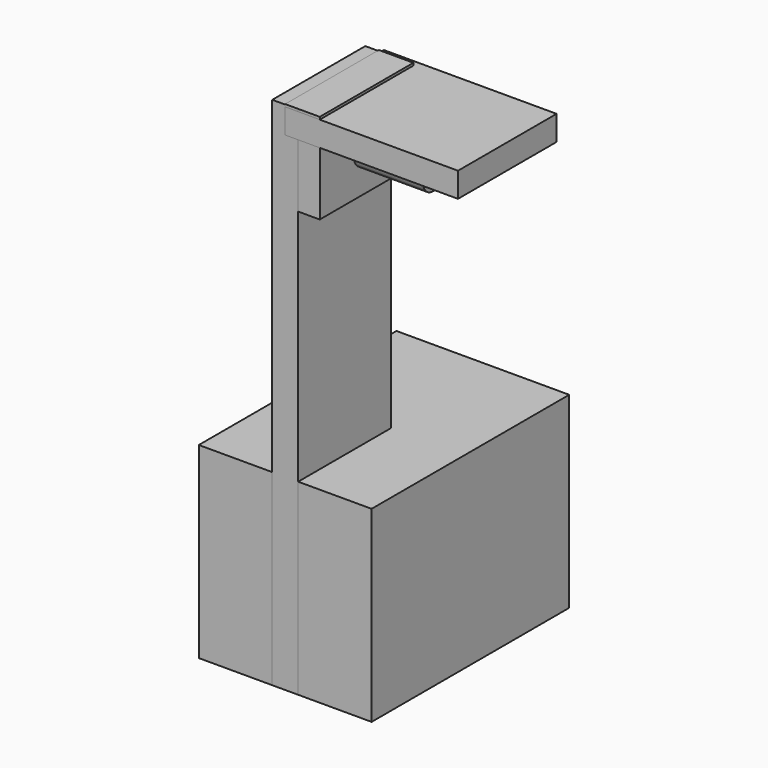
from build123d import *

# Parameters (mm, degrees)
F0_W     = 36.307111
F0_H     = 27.576232
F5_DEPTH = 12.7
F3_W     = 17.203515
F3_H     = 13.289481
F6_DEPTH = 5.08
F1_W     = 17.095277
F1_H     = 75.758271
F7_DEPTH = 1.905
F4_R     = 1.80218
F8_DEPTH = 15.24
F2_W     = 18.113755
F2_H     = 3.640957
F9_DEPTH = 25.4


with BuildPart() as f5:
    # F0 (on Right) → F5 (new body, symmetric)
    with BuildSketch(Plane.YZ):
        with Locations((18.153555, 13.788116)):
            Rectangle(F0_W, F0_H)
    extrude(amount=F5_DEPTH, both=True)


with BuildPart() as f6:
    # F3 (on Right) → F6 (new body)
    with BuildSketch(Plane.YZ):
        with Locations((8.601757, 69.178157)):
            Rectangle(F3_W, F3_H)
    extrude(amount=F6_DEPTH)


with BuildPart() as f7:
    # F1 (on Right) → F7 (new body, symmetric)
    with BuildSketch(Plane.YZ):
        with Locations((8.547638, 37.879135)):
            Rectangle(F1_W, F1_H)
    extrude(amount=F7_DEPTH, both=True)


with BuildPart() as f8:
    # F4 (on Right) → F8 (new body)
    with BuildSketch(Plane.YZ):
        with Locations((8.101127, 67.994848)):
            Circle(F4_R)
    extrude(amount=F8_DEPTH)


with BuildPart() as f9:
    # F2 (on Right) → F9 (new body)
    with BuildSketch(Plane.YZ):
        with Locations((9.056877, 73.638331)):
            Rectangle(F2_W, F2_H)
    extrude(amount=F9_DEPTH)


solid = Compound([f5.part, f6.part, f7.part, f8.part, f9.part])
